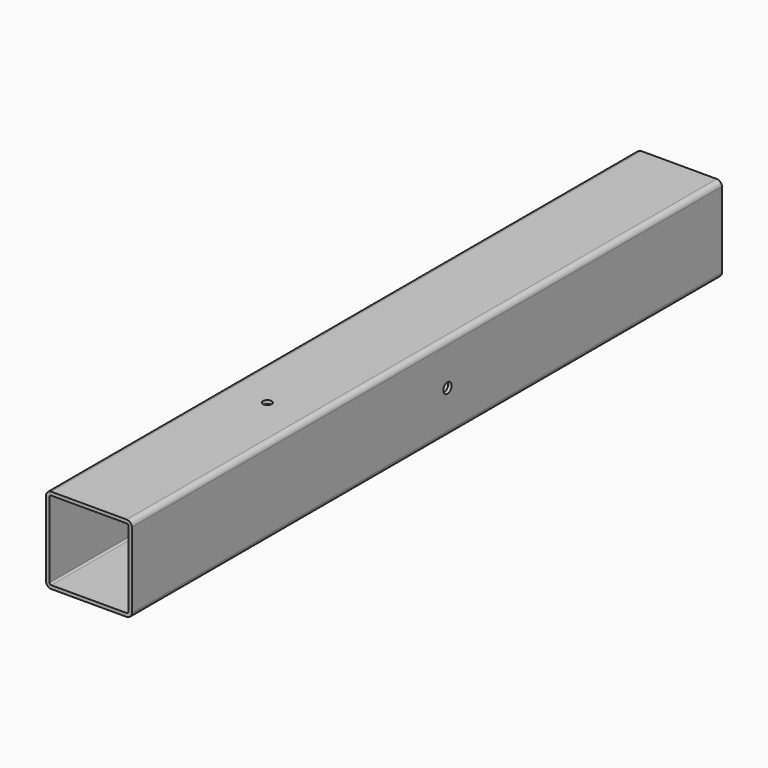
from build123d import *

# Parameters (mm, degrees)
F0_W     = 50
F0_H     = 50
F0_W_2   = 46
F0_H_2   = 46
F1_DEPTH = 430
F2_R     = 1
F3_R     = 3
F4_R     = 2.5
F5_DEPTH = 5
F6_R     = 3
F7_DEPTH = 50.001


with BuildPart() as f1:
    # F0 (on Front) → F1 (new body)
    with BuildSketch(Plane.XZ):
        Rectangle(F0_W, F0_H)
        Rectangle(F0_W_2, F0_H_2, mode=Mode.SUBTRACT)
    extrude(amount=F1_DEPTH)

    # F2
    f2_edges = [f1.edges().sort_by_distance(p)[0] for p in [
        (-23, -215, 23),
        (23, -215, 23),
        (23, -215, -23),
        (-23, -215, -23),
    ]]
    fillet(f2_edges, radius=F2_R)

    # F3
    f3_edges = [f1.edges().sort_by_distance(p)[0] for p in [
        (25, -215, 25),
        (-25, -215, 25),
        (25, -215, -25),
        (-25, -215, -25),
    ]]
    fillet(f3_edges, radius=F3_R)

    # F4 (on face) → F5 (cut)
    with BuildSketch(Plane.XY.offset(25)):
        with Locations((0, -300)):
            Circle(F4_R)
    extrude(amount=-F5_DEPTH, mode=Mode.SUBTRACT)

    # F6 (on face) → F7 (cut, through all)
    with BuildSketch(Plane.YZ.offset(25)):
        with Locations((-200, 0)):
            Circle(F6_R)
    extrude(amount=-F7_DEPTH, mode=Mode.SUBTRACT)


solid = f1.part
